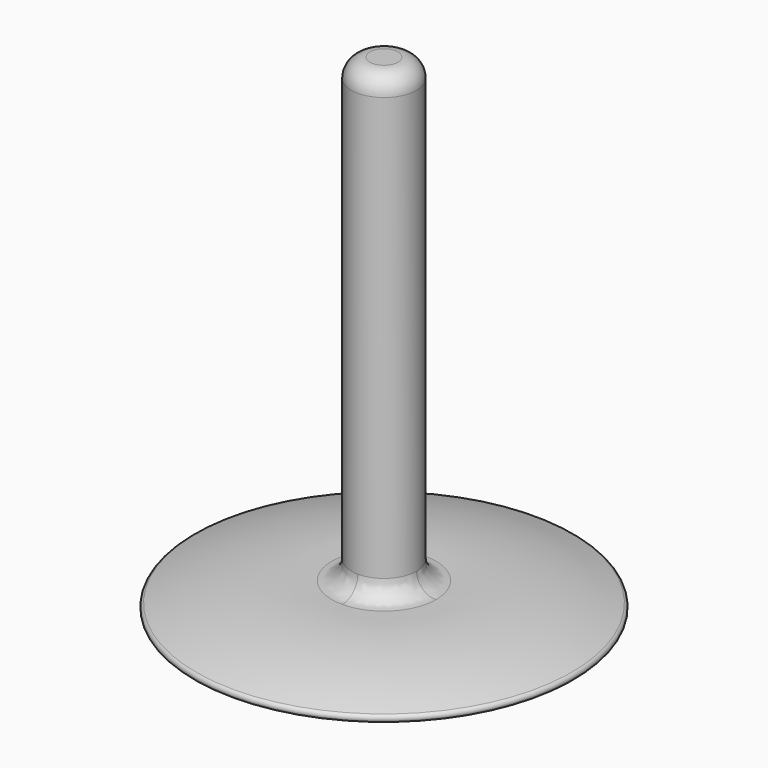
from build123d import *

# Parameters (mm, degrees)
F0_R     = 8.89
F1_DEPTH = 127
F4_R     = 5.08


with BuildPart() as f1:
    # F0 (on Top) → F1 (new body)
    with BuildSketch(Plane.XY):
        Circle(F0_R)
    extrude(amount=F1_DEPTH)

    # F2 (on Right) → F3 (revolve)
    with BuildSketch(Plane.YZ):
        with BuildLine():
            Line((-50.8, -5.823538), (0, -5.823538))
            Line((0, -5.823538), (0, 0))
            ThreePointArc((0, 0), (-25.811333, 1.355232), (-51.129398, -3.846418))
            ThreePointArc((-51.129398, -3.846418), (-51.802186, -4.974508), (-50.8, -5.823538))
        make_face()
    revolve(axis=Axis((0, 0, -1.317876), (0, 0, 1)))

    # F4
    f4_edges = [f1.edges().sort_by_distance(p)[0] for p in [
        (-8.89, 0, 127),
        (-6.286179, 6.286179, 1.215018),
        (6.286179, -6.286179, 1.215018),
    ]]
    fillet(f4_edges, radius=F4_R)


solid = f1.part
